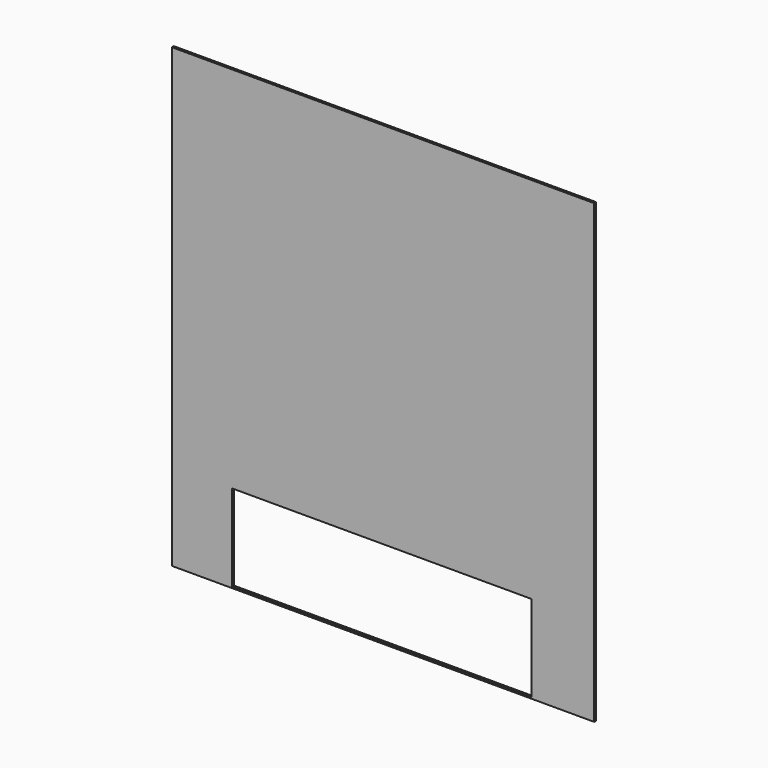
from build123d import *

# Parameters (mm, degrees)
F0_W          = 551.280781
F0_H          = 595.958948
F2_DEPTH      = 3.175
F1_W          = 391.17673
F1_H          = 113.006599
F3_DEPTH      = 25.4
F3_DEPTH_BACK = 25.4


with BuildPart() as f2:
    # F0 (on Front) → F2 (new body)
    with BuildSketch(Plane.XZ):
        with Locations((183.218337, 187.043697)):
            Rectangle(F0_W, F0_H)
    extrude(amount=F2_DEPTH)

    # F1 (on face) → F3 (cut, two sides)
    with BuildSketch(Plane.XZ) as f3_sk:
        with Locations((181.670889, -52.791416)):
            Rectangle(F1_W, F1_H)
    extrude(amount=F3_DEPTH, mode=Mode.SUBTRACT)
    extrude(f3_sk.sketch, amount=-F3_DEPTH_BACK, mode=Mode.SUBTRACT)


solid = f2.part
